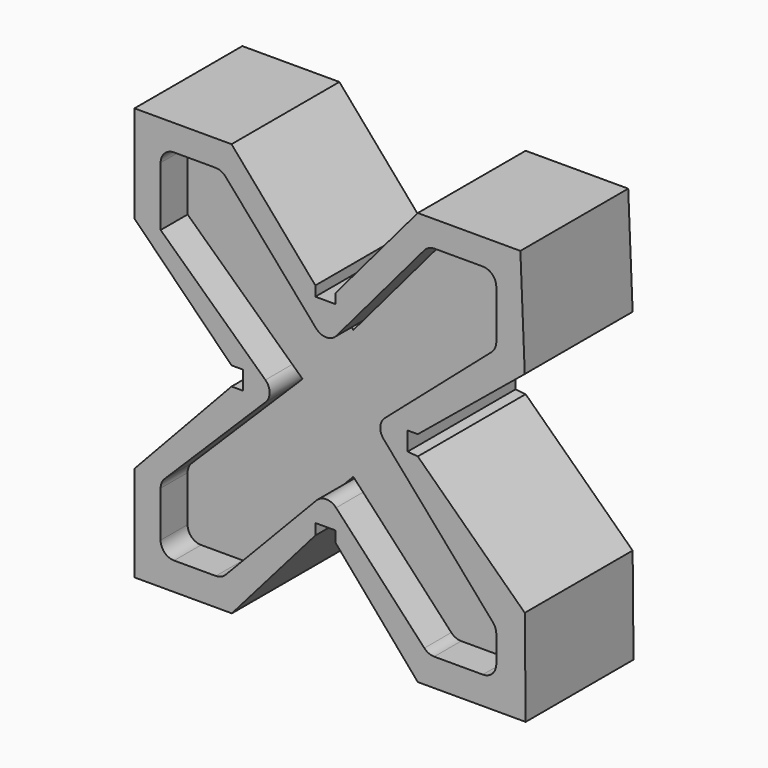
from build123d import *

# Parameters (mm, degrees)
F1_DEPTH = 50.8
F2_DEPTH = 38.1
F3_R     = 5.08


with BuildPart() as f1:
    # F0 (on Front) → F1 (new body)
    with BuildSketch(Plane.XZ):
        Polygon((36.572117, 0), (0, 0), (0, -36.575612), (36.572117, -73.370636), (40.917668, -73.370636), (40.917668, -80.371439), (36.572117, -80.371439), (0, -119.51381), (0, -155.595407), (36.687225, -155.595407), (68.154112, -119.51381), (68.154112, -115.364969), (75.802006, -115.364969), (75.802006, -119.51381), (106.74908, -155.595407), (147.401795, -155.595407), (147.064805, -119.51381), (106.74908, -80.756798), (102.949895, -80.377825), (102.949895, -73.370636), (106.74908, -73.370636), (147.064805, -40.315568), (145.401269, 0), (106.74908, 0), (75.802006, -36.575612), (75.802006, -40.315568), (68.154112, -40.315568), (68.154112, -36.575612), align=None)
        Polygon((9.854002, -37.170373), (9.854002, -9.769688), (32.830928, -9.769688), (72.304286, -55.181518), (110.729687, -9.769688), (136.330321, -9.769688), (136.330321, -35.55505), (90.542087, -75.355591), (136.330321, -128.032322), (136.330321, -145.14567), (110.729687, -145.14567), (72.304286, -103.848994), (32.830928, -145.14567), (9.854002, -145.14567), (9.854002, -120.707072), (53.175925, -77.647596), align=None, mode=Mode.SUBTRACT)
    extrude(amount=F1_DEPTH)

    # F3
    f3_edges = [f1.edges().sort_by_distance(p)[0] for p in [
        (9.854002, -25.4, -9.769688),
        (32.830928, -25.4, -9.769688),
        (53.175925, -25.4, -77.647596),
        (72.304286, -25.4, -55.181518),
        (110.729687, -25.4, -9.769688),
        (136.330321, -25.4, -9.769688),
        (136.330321, -25.4, -35.55505),
        (90.542087, -25.4, -75.355591),
        (9.854002, -25.4, -120.707072),
        (72.304286, -25.4, -103.848994),
        (110.729687, -25.4, -145.14567),
        (9.854002, -25.4, -145.14567),
        (32.830928, -25.4, -145.14567),
        (136.330321, -25.4, -128.032322),
        (136.330321, -25.4, -145.14567),
    ]]
    fillet(f3_edges, radius=F3_R)


with BuildPart() as f2:
    # F0 (on Front) → F2 (new body)
    with BuildSketch(Plane.XZ):
        Polygon((32.830928, -9.769688), (9.854002, -9.769688), (9.854002, -37.170373), (53.175925, -77.647596), (9.854002, -120.707072), (9.854002, -145.14567), (32.830928, -145.14567), (72.304286, -103.848994), (110.729687, -145.14567), (136.330321, -145.14567), (136.330321, -128.032322), (90.542087, -75.355591), (136.330321, -35.55505), (136.330321, -9.769688), (110.729687, -9.769688), (72.304286, -55.181518), align=None)
    extrude(amount=F2_DEPTH)


solid = Compound([f1.part, f2.part])
